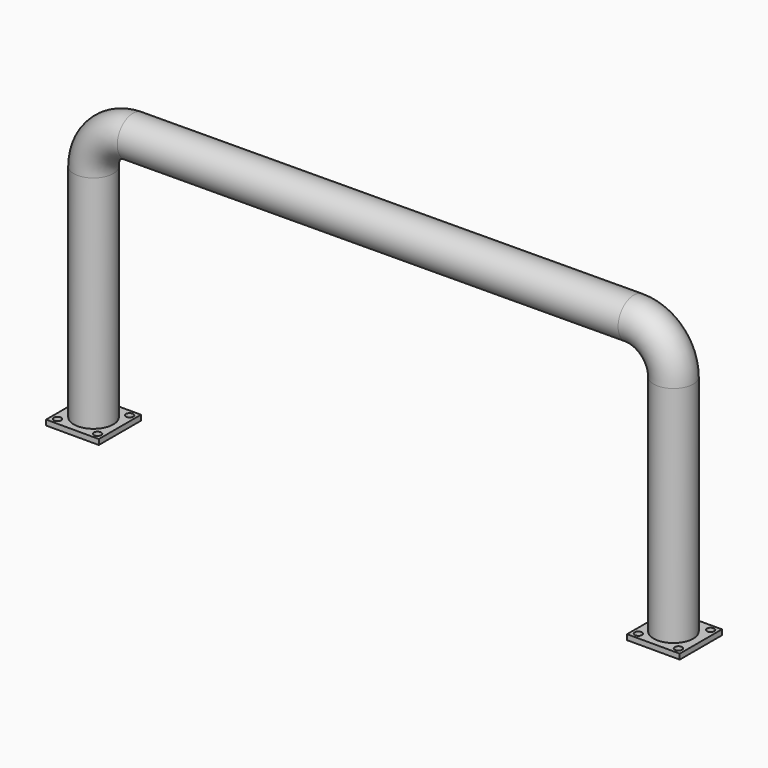
from build123d import *

# Parameters (mm, degrees)
F0_R     = 37.5
F3_W     = 100
F3_H     = 100
F4_DEPTH = 10
F6_D     = 14
F6_DEPTH = 150


with BuildPart() as f2:
    # F2: sweep along a path in F1
    with BuildLine(Plane.XZ) as f2_path:
        Line((0, 0), (0, 418.800402))
        ThreePointArc((0, 418.800402), (21.941068, 471.982645), (74.998809, 494.223095))
        Line((74.998809, 494.223095), (1025.001191, 499.577307))
        ThreePointArc((1025.001191, 499.577307), (1078.007651, 477.883353), (1100, 425))
        Line((1100, 425), (1100, 0))
    # F0 (on Top) → F2 (sweep)
    with BuildSketch(Plane.XY):
        Circle(F0_R)
    sweep(path=f2_path.line)

    # F3 (on face) → F4 (join)
    with BuildSketch(Plane(origin=(0, 0, 0), x_dir=(1, 0, 0), z_dir=(0, 0, -1))):
        Rectangle(F3_W, F3_H)
        with Locations((1101.935744, 0)):
            Rectangle(F3_W, F3_H)
    extrude(amount=F4_DEPTH)

    # F6
    with Locations(Plane(origin=(0, 0, -10), x_dir=(1, 0, 0), z_dir=(0, 0, -1))):
        with Locations((-38, 38), (38, 38), (38, -38), (-38, -38), (1064.078009, 38.25024), (1139.871562, 38.011158), (1139.93069, -38.099146), (1063.986694, -38.099146)):
            Hole(F6_D / 2, depth=F6_DEPTH)


solid = f2.part
